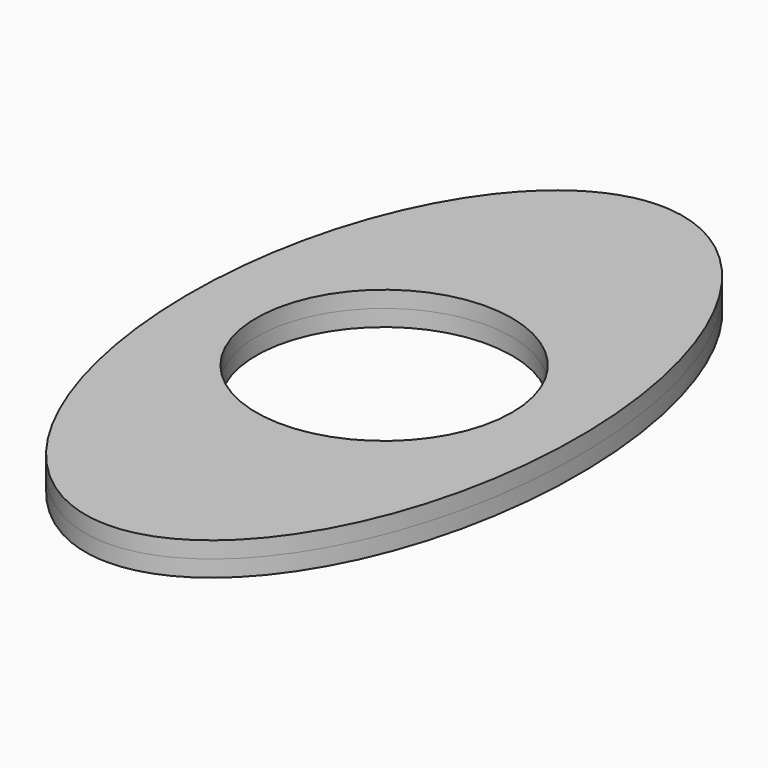
from build123d import *

# Parameters (mm, degrees)
F0_R     = 2.9591
F1_DEPTH = 0.381


with BuildPart() as f1:
    # F0 (on Top) → F1 (new body, symmetric)
    with BuildSketch(Plane.XY):
        with BuildLine():
            add(Edge.make_bspline(
                [(0, -8), (7.794229, -8), (3.897114, 4), (0, 16), (-3.897114, 4), (-7.794229, -8), (0, -8)],
                knots=[0, 0, 0, 2.094395, 2.094395, 4.18879, 4.18879, 6.283185, 6.283185, 6.283185], degree=2, weights=[1, 0.5, 1, 0.5, 1, 0.5, 1]))
        make_face()
        Circle(F0_R, mode=Mode.SUBTRACT)
    extrude(amount=F1_DEPTH, both=True)


solid = f1.part
